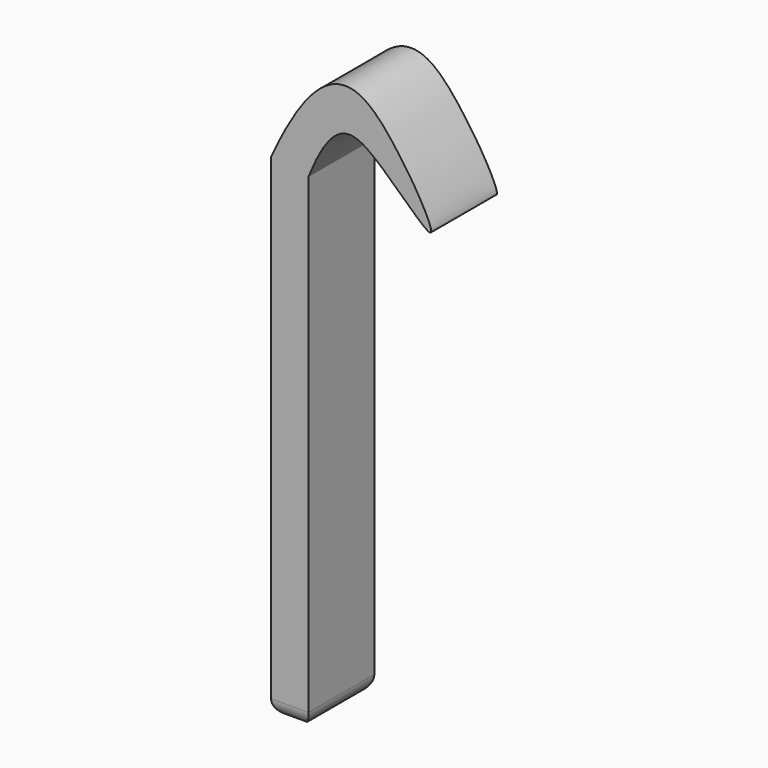
from build123d import *

# Parameters (mm, degrees)
F1_DEPTH = 25
F2_R     = 5


with BuildPart() as f1:
    # F0 (on Front) → F1 (new body)
    with BuildSketch(Plane.XZ):
        with BuildLine():
            add(Edge.make_bspline(
                [(-52.2197522223, 7.099644281), (-44.3842820823, 26.5315547585), (-33.060644271, 21.4941448198), (-8.0210389263, -5.6456637874), (-27.4513239724, 29.6983099043), (-46.9115003943, 45.4856976867), (-63.6165514588, 8.5943061858)],
                knots=[0, 0, 0, 0, 0.2343776051, 0.4582508003, 0.6930606787, 1, 1, 1, 1], degree=3))
            Line((-63.6165514588, 8.5943061858), (-63.6165514588, -141.4056938142))
            Line((-63.6165514588, -141.4056938142), (-52.2197522223, -141.4056938142))
            Line((-52.2197522223, -141.4056938142), (-52.2197522223, 7.099644281))
        make_face()
    extrude(amount=F1_DEPTH)

    # F2
    f2_edges = [f1.edges().sort_by_distance(p)[0] for p in [
        (-63.616551, -12.5, -141.405694),
        (-52.219752, -12.5, -141.405694),
        (-57.918152, 0, -141.405694),
        (-57.918152, -25, -141.405694),
    ]]
    fillet(f2_edges, radius=F2_R)


solid = f1.part
